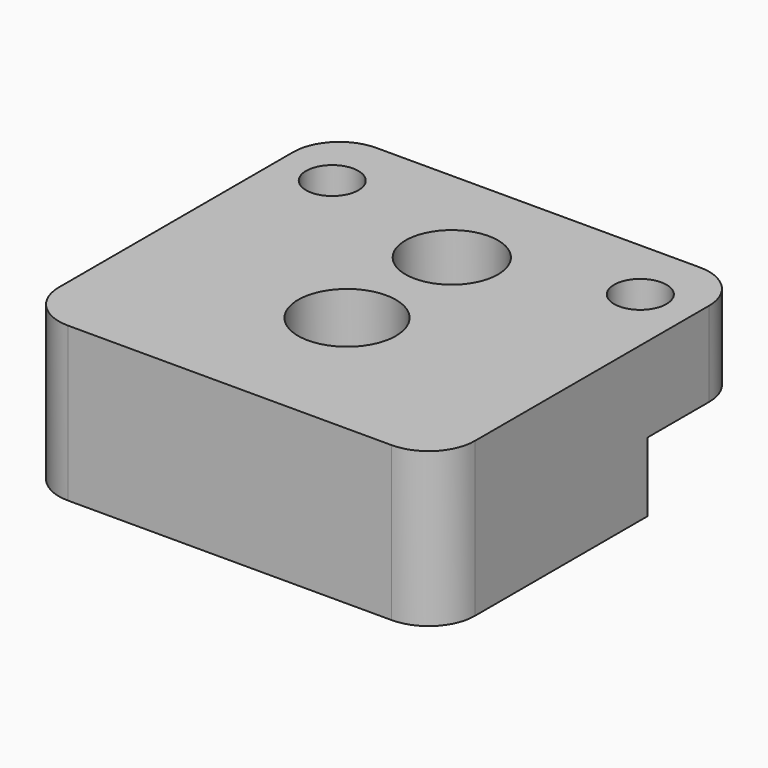
from build123d import *

# Parameters (mm, degrees)
PAD005_DEPTH    = 10
SKETCH010_R     = 3
SKETCH010_R_2   = 3.175
POCKET005_DEPTH = 10.001
SKETCH011_R     = 1.7
POCKET006_DEPTH = 10.001
POCKET004_DEPTH = 4.5


with BuildPart() as part:
    # Sketch012 → Pad005 (new body)
    with BuildSketch(Plane.XY):
        with BuildLine():
            Line((-10.5, 0), (10.5, 0))
            ThreePointArc((13.5, -3), (12.62132, -0.87868), (10.5, 0))
            Line((13.5, -3), (13.5, -22))
            ThreePointArc((10.5, -25), (12.62132, -24.12132), (13.5, -22))
            Line((10.5, -25), (-10.5, -25))
            ThreePointArc((-13.5, -22), (-12.62132, -24.12132), (-10.5, -25))
            Line((-13.5, -22), (-13.5, -3))
            ThreePointArc((-10.5, 0), (-12.62132, -0.87868), (-13.5, -3))
        make_face()
    extrude(amount=PAD005_DEPTH)

    # Sketch010 → Pocket005 (cut, through all)
    with BuildSketch(Plane.XY):
        with Locations((0, -7)):
            Circle(SKETCH010_R)
        with Locations((0, -15.5)):
            Circle(SKETCH010_R_2)
    extrude(amount=POCKET005_DEPTH, mode=Mode.SUBTRACT)

    # Sketch011 → Pocket006 (cut, through all)
    with BuildSketch(Plane.XY):
        with Locations((-10, -4.2)):
            Circle(SKETCH011_R)
        with Locations((10, -4.2)):
            Circle(SKETCH011_R)
    extrude(amount=POCKET006_DEPTH, mode=Mode.SUBTRACT)

    # Sketch013 → Pocket004 (cut)
    with BuildSketch(Plane.XY):
        with BuildLine():
            Line((-6.75, 5), (-6.75, -5))
            ThreePointArc((-9.75, -8), (-7.62868, -7.12132), (-6.75, -5))
            Line((-9.75, -8), (-20, -8))
            Line((-20, -8), (-20, 10))
            Line((-20, 10), (20, 10))
            Line((20, 10), (20, -8))
            Line((20, -8), (9.75, -8))
            ThreePointArc((6.75, -5), (7.62868, -7.12132), (9.75, -8))
            Line((6.75, -5), (6.75, 5))
            Line((6.75, 5), (-6.75, 5))
        make_face()
    extrude(amount=POCKET004_DEPTH, mode=Mode.SUBTRACT)


with BuildPart() as part_1:
    # Body004 placement: moved
    add(part.part.moved(Location((0, -1, -25))))


solid = part_1.part
